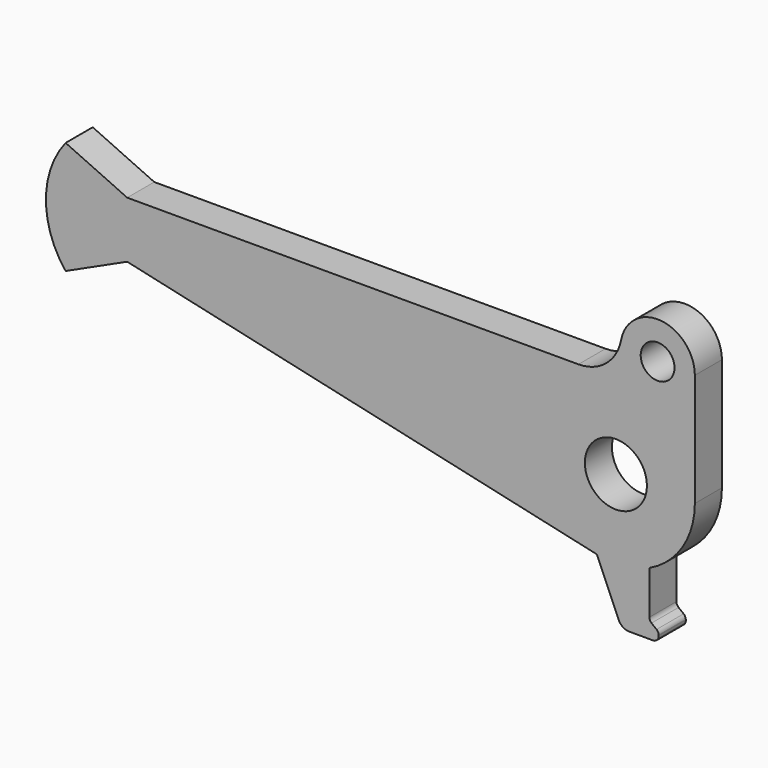
from build123d import *

# Parameters (mm, degrees)
SKETCH_R     = 3
SKETCH_R_2   = 5.5
PAD_DEPTH    = 6
PAD001_DEPTH = 6
FILLET_R     = 2
FILLET001_R  = 1
FILLET002_R  = 1
FILLET003_R  = 1


with BuildPart() as part:
    # Sketch → Pad (new body)
    with BuildSketch(Plane.XZ):
        with BuildLine():
            ThreePointArc((-12.548712, 10), (-16.045877, 0), (-12.548712, -10))
            Line((-1.64, -5), (-12.548712, -10))
            Line((81.949241, -23.66356), (-1.64, -5))
            ThreePointArc((81.949241, -23.66356), (93.754695, -20.924986), (99, -10))
            Line((99, -10), (99, 10))
            ThreePointArc((99, 10), (93.025256, 16.570316), (85.918468, 11.244888))
            ThreePointArc((78.36, 5), (83.262272, 6.763181), (85.918468, 11.244888))
            Line((78.36, 5), (-1.64, 5))
            Line((-1.64, 5), (-12.548712, 10))
        make_face()
        with Locations((92.4, 10)):
            Circle(SKETCH_R, mode=Mode.SUBTRACT)
        with Locations((85, -10)):
            Circle(SKETCH_R_2, mode=Mode.SUBTRACT)
    extrude(amount=PAD_DEPTH)

    # Sketch004 (on Face13 of Pad) → Pad001 (join)
    with BuildSketch(Plane.XZ.offset(6)):
        Polygon((81.14045, -22.447344), (90.934021, -21.502348), (90.934021, -30.866373), (92.566284, -32.155006), (92.652191, -33.787262), (86.037239, -33.787262), align=None)
    extrude(amount=-PAD001_DEPTH)

    # Fillet
    fillet_edges = [part.edges().sort_by_distance(p)[0] for p in [
        (86.037239, -3, -33.787262),
    ]]
    fillet(fillet_edges, radius=FILLET_R)

    # Fillet001
    fillet001_edges = [part.edges().sort_by_distance(p)[0] for p in [
        (92.652191, -3, -33.787262),
    ]]
    fillet(fillet001_edges, radius=FILLET001_R)

    # Fillet002
    fillet002_edges = [part.edges().sort_by_distance(p)[0] for p in [
        (92.566284, -3, -32.155006),
    ]]
    fillet(fillet002_edges, radius=FILLET002_R)

    # Fillet003
    fillet003_edges = [part.edges().sort_by_distance(p)[0] for p in [
        (90.934021, -3, -30.866373),
    ]]
    fillet(fillet003_edges, radius=FILLET003_R)


solid = part.part
